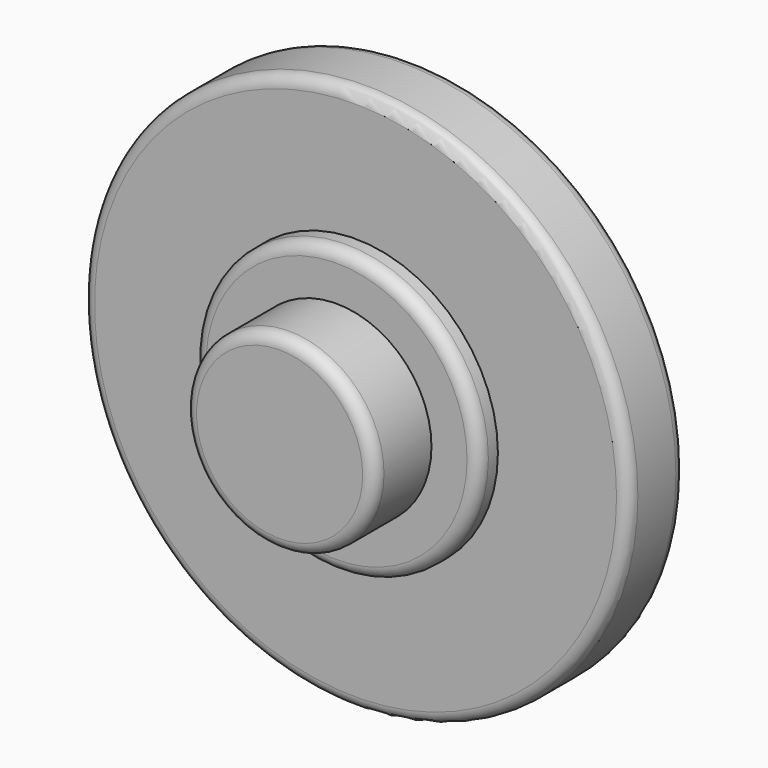
from build123d import *

# Parameters (mm, degrees)
F0_R     = 11.5
F1_DEPTH = 3
F2_R     = 6
F3_DEPTH = 1
F4_R     = 4
F5_DEPTH = 3
F6_R     = 0.5


with BuildPart() as f1:
    # F0 (on Front) → F1 (new body)
    with BuildSketch(Plane.XZ):
        Circle(F0_R)
    extrude(amount=F1_DEPTH)

    # F2 (on face) → F3 (join)
    with BuildSketch(Plane.XZ.offset(3)):
        Circle(F2_R)
    extrude(amount=F3_DEPTH)

    # F4 (on face) → F5 (join)
    with BuildSketch(Plane.XZ.offset(4)):
        Circle(F4_R)
    extrude(amount=F5_DEPTH)

    # F6
    f6_edges = [f1.edges().sort_by_distance(p)[0] for p in [
        (-11.5, 0, 0),
        (-11.5, -3, 0),
        (-6, -4, 0),
        (-4, -7, 0),
    ]]
    fillet(f6_edges, radius=F6_R)


solid = f1.part
